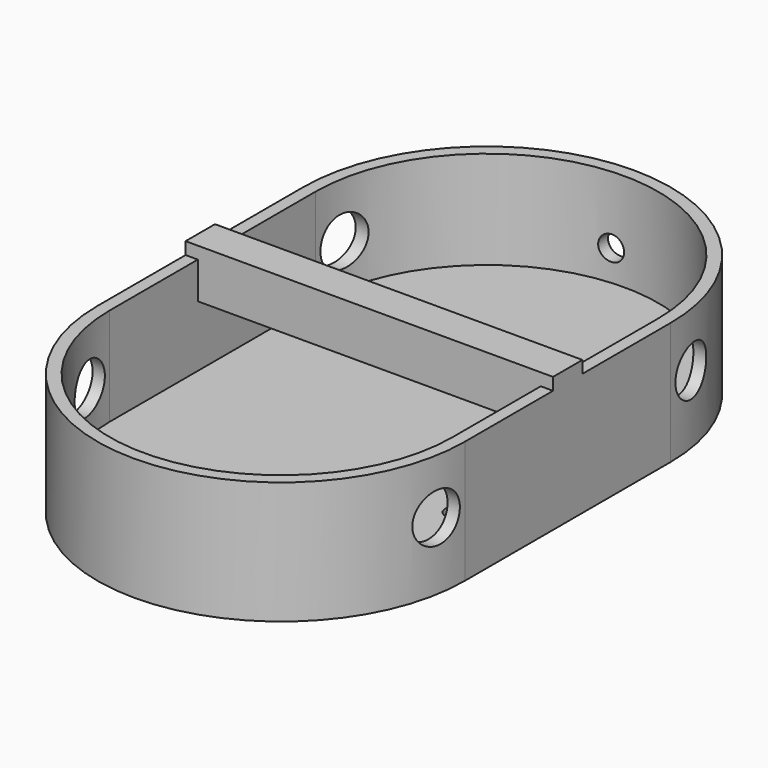
from build123d import *

# Parameters (mm, degrees)
CYLINDER049_R           = 0.8
CYLINDER049_DEPTH       = 10
CYLINDER048_R           = 0.8
CYLINDER048_DEPTH       = 10
CYLINDER017_R           = 1
CYLINDER017_DEPTH       = 10
CYLINDER017_ROLL_ANGLE  = 90
CYLINDER011_R           = 2
CYLINDER011_DEPTH       = 10
CYLINDER011_PITCH_ANGLE = 90
CYLINDER014_R           = 2
CYLINDER014_DEPTH       = 10
CYLINDER014_PITCH_ANGLE = 90
CYLINDER013_R           = 2
CYLINDER013_DEPTH       = 10
CYLINDER013_PITCH_ANGLE = 90
CYLINDER015_R           = 2
CYLINDER015_DEPTH       = 10
CYLINDER015_PITCH_ANGLE = 90
CYLINDER002_W           = 14
CYLINDER002_H           = 8
CYLINDER002_ANGLE       = 180
CYLINDER001_W           = 15
CYLINDER001_H           = 10
CYLINDER001_ANGLE       = 180
CYLINDER003_W           = 14
CYLINDER003_H           = 8
CYLINDER003_ANGLE       = 180
CYLINDER_W              = 15
CYLINDER_H              = 10
CYLINDER_ANGLE          = 180
BOX001_W                = 28
BOX001_H                = 21
BOX001_DEPTH            = 8
BOX_W                   = 30
BOX_H                   = 21
BOX_DEPTH               = 10
FUSION_PLACEMENT_ANGLE  = 180
BOX014_W                = 28
BOX014_H                = 3
BOX014_DEPTH            = 3
BOX007_W                = 30
BOX007_H                = 3
BOX007_DEPTH            = 1


with BuildPart() as cilindro049:
    # Cylinder049 → Cylinder049 (new body)
    with BuildSketch(Plane(origin=(11, -17, -15), x_dir=(1, 0, 0), z_dir=(0, 0, 1))):
        Circle(CYLINDER049_R)
    extrude(amount=CYLINDER049_DEPTH)


with BuildPart() as cilindro048:
    # Cylinder048 → Cylinder048 (new body)
    with BuildSketch(Plane(origin=(11, -4, -15), x_dir=(1, 0, 0), z_dir=(0, 0, 1))):
        Circle(CYLINDER048_R)
    extrude(amount=CYLINDER048_DEPTH)


with BuildPart() as cilindro017:
    # Cylinder017 → Cylinder017 (new body)
    with BuildSketch(Plane.XY):
        Circle(CYLINDER017_R)
    extrude(amount=CYLINDER017_DEPTH)


with BuildPart() as cilindro017_1:
    # Cylinder017 roll: moved
    add(cilindro017.part.rotate(Axis((0, 0, 0), (1, 0, 0)), CYLINDER017_ROLL_ANGLE))


with BuildPart() as cilindro017_2:
    # Cylinder017 placement: moved
    add(cilindro017_1.part.moved(Location((-14, 90, 38.5))))


with BuildPart() as cilindro011:
    # Cylinder011 → Cylinder011 (new body)
    with BuildSketch(Plane.XY):
        Circle(CYLINDER011_R)
    extrude(amount=CYLINDER011_DEPTH)


with BuildPart() as cilindro011_1:
    # Cylinder011 pitch: moved
    add(cilindro011.part.rotate(Axis((0, 0, 0), (0, 1, 0)), CYLINDER011_PITCH_ANGLE))


with BuildPart() as cilindro011_2:
    # Cylinder011 placement: moved
    add(cilindro011_1.part.moved(Location((-32, 72.5, 39.5))))


with BuildPart() as cilindro014:
    # Cylinder014 → Cylinder014 (new body)
    with BuildSketch(Plane.XY):
        Circle(CYLINDER014_R)
    extrude(amount=CYLINDER014_DEPTH)


with BuildPart() as cilindro014_1:
    # Cylinder014 pitch: moved
    add(cilindro014.part.rotate(Axis((0, 0, 0), (0, 1, 0)), CYLINDER014_PITCH_ANGLE))


with BuildPart() as cilindro014_2:
    # Cylinder014 placement: moved
    add(cilindro014_1.part.moved(Location((-5, 46.5, 39.5))))


with BuildPart() as cilindro013:
    # Cylinder013 → Cylinder013 (new body)
    with BuildSketch(Plane.XY):
        Circle(CYLINDER013_R)
    extrude(amount=CYLINDER013_DEPTH)


with BuildPart() as cilindro013_1:
    # Cylinder013 pitch: moved
    add(cilindro013.part.rotate(Axis((0, 0, 0), (0, 1, 0)), CYLINDER013_PITCH_ANGLE))


with BuildPart() as cilindro013_2:
    # Cylinder013 placement: moved
    add(cilindro013_1.part.moved(Location((-32, 46.5, 39.5))))


with BuildPart() as cilindro015:
    # Cylinder015 → Cylinder015 (new body)
    with BuildSketch(Plane.XY):
        Circle(CYLINDER015_R)
    extrude(amount=CYLINDER015_DEPTH)


with BuildPart() as cilindro015_1:
    # Cylinder015 pitch: moved
    add(cilindro015.part.rotate(Axis((0, 0, 0), (0, 1, 0)), CYLINDER015_PITCH_ANGLE))


with BuildPart() as cilindro015_2:
    # Cylinder015 placement: moved
    add(cilindro015_1.part.moved(Location((-5, 72.5, 39.5))))


with BuildPart() as cilindro002:
    # Cylinder002 → Cylinder002 (revolve)
    with BuildSketch(Plane(origin=(16, 49, -36), x_dir=(1, 0, 0), z_dir=(0, 1, 0))):
        with Locations((7, 4)):
            Rectangle(CYLINDER002_W, CYLINDER002_H)
    revolve(axis=Axis((16, 49, -36), (0, 0, -1)), revolution_arc=CYLINDER002_ANGLE)


with BuildPart() as cut001:
    # Cylinder001 → Cylinder001 (revolve)
    with BuildSketch(Plane(origin=(16, 49, -34), x_dir=(1, 0, 0), z_dir=(0, 1, 0))):
        with Locations((7.5, 5)):
            Rectangle(CYLINDER001_W, CYLINDER001_H)
    revolve(axis=Axis((16, 49, -34), (0, 0, -1)), revolution_arc=CYLINDER001_ANGLE)

    # Cut001: cut Cilindro002
    add(cilindro002.part, mode=Mode.SUBTRACT)


with BuildPart() as cut001_1:
    # Cut001 placement: moved
    add(cut001.part.moved(Location((-3, 0, 0))))


with BuildPart() as cilindro003:
    # Cylinder003 → Cylinder003 (revolve)
    with BuildSketch(Plane(origin=(13, 70, -36), x_dir=(-1, 0, 0), z_dir=(0, -1, 0))):
        with Locations((7, 4)):
            Rectangle(CYLINDER003_W, CYLINDER003_H)
    revolve(axis=Axis((13, 70, -36), (0, 0, -1)), revolution_arc=CYLINDER003_ANGLE)


with BuildPart() as cut002:
    # Cylinder → Cylinder (revolve)
    with BuildSketch(Plane(origin=(13, 70, -34), x_dir=(-1, 0, 0), z_dir=(0, -1, 0))):
        with Locations((7.5, 5)):
            Rectangle(CYLINDER_W, CYLINDER_H)
    revolve(axis=Axis((13, 70, -34), (0, 0, -1)), revolution_arc=CYLINDER_ANGLE)

    # Cut002: cut Cilindro003
    add(cilindro003.part, mode=Mode.SUBTRACT)


with BuildPart() as cubo001:
    # Box001 → Box001 (new body)
    with BuildSketch(Plane(origin=(-1, 49, -44), x_dir=(1, 0, 0), z_dir=(0, 0, 1))):
        with Locations((14, 10.5)):
            Rectangle(BOX001_W, BOX001_H)
    extrude(amount=BOX001_DEPTH)


with BuildPart() as cut025:
    # Box → Box (new body)
    with BuildSketch(Plane(origin=(-2, 49, -44), x_dir=(1, 0, 0), z_dir=(0, 0, 1))):
        with Locations((15, 10.5)):
            Rectangle(BOX_W, BOX_H)
    extrude(amount=BOX_DEPTH)

    # Cut: cut Cubo001
    add(cubo001.part, mode=Mode.SUBTRACT)

    # Fusion: union Cut001, Cut002
    add(cut001_1.part)
    add(cut002.part)


with BuildPart() as cut025_1:
    # Fusion placement: moved
    add(cut025.part.rotate(Axis((0, 0, 0), (0, 1, 0)), FUSION_PLACEMENT_ANGLE))

    # Cut021: cut Cilindro015
    add(cilindro015_2.part, mode=Mode.SUBTRACT)

    # Cut022: cut Cilindro013
    add(cilindro013_2.part, mode=Mode.SUBTRACT)

    # Cut023: cut Cilindro014
    add(cilindro014_2.part, mode=Mode.SUBTRACT)

    # Cut024: cut Cilindro011
    add(cilindro011_2.part, mode=Mode.SUBTRACT)

    # Cut025: cut Cilindro017
    add(cilindro017_2.part, mode=Mode.SUBTRACT)


with BuildPart() as cubo014:
    # Box014 → Box014 (new body)
    with BuildSketch(Plane(origin=(-27, 58, 41), x_dir=(1, 0, 0), z_dir=(0, 0, 1))):
        with Locations((14, 1.5)):
            Rectangle(BOX014_W, BOX014_H)
    extrude(amount=BOX014_DEPTH)


with BuildPart() as cut068:
    # Box007 → Box007 (new body)
    with BuildSketch(Plane(origin=(-28, 58, 44), x_dir=(1, 0, 0), z_dir=(0, 0, 1))):
        with Locations((15, 1.5)):
            Rectangle(BOX007_W, BOX007_H)
    extrude(amount=BOX007_DEPTH)

    # Fusion002010: union Cubo014
    add(cubo014.part)

    # Fusion002015: union Cut025
    add(cut025_1.part)


with BuildPart() as cut068_1:
    # Fusion002015 placement: moved
    add(cut068.part.moved(Location((13, -70, -44))))

    # Cut067: cut Cilindro048
    add(cilindro048.part, mode=Mode.SUBTRACT)

    # Cut068: cut Cilindro049
    add(cilindro049.part, mode=Mode.SUBTRACT)


solid = cut068_1.part
